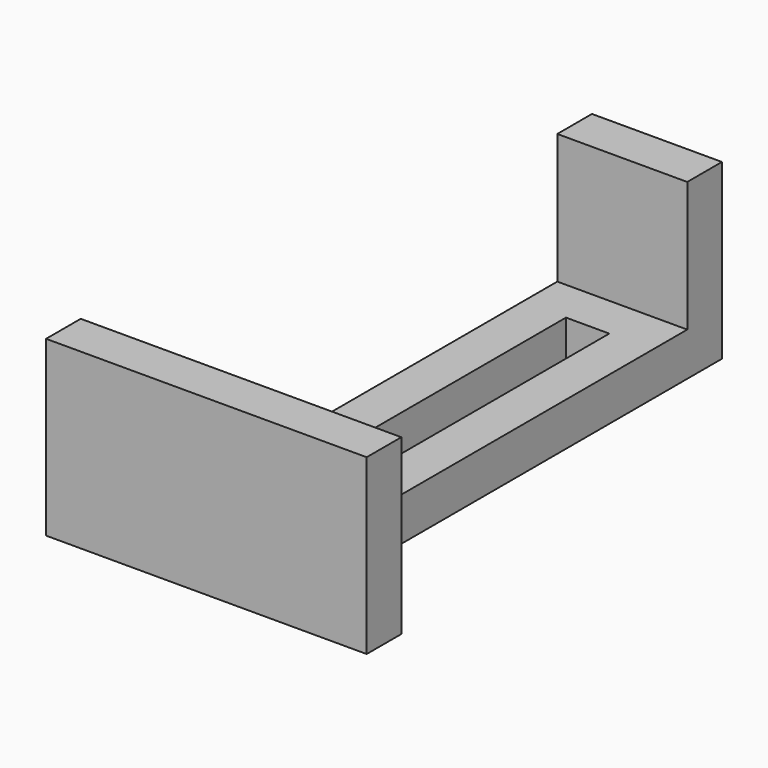
from build123d import *

# Parameters (mm, degrees)
PAD_DEPTH     = 5
SKETCH001_W   = 37
SKETCH001_H   = 5
SKETCH001_W_2 = 15
PAD001_DEPTH  = 20


with BuildPart() as part:
    # Sketch → Pad (new body)
    with BuildSketch(Plane.XY):
        Polygon((0, 5), (0, 0), (37, 0), (37, 5), (26, 5), (26, 65), (11, 65), (11, 5), align=None)
        Polygon((16, 5), (21, 5), (21, 55), (16.000076, 55), align=None, mode=Mode.SUBTRACT)
    extrude(amount=PAD_DEPTH)

    # Sketch001 → Pad001 (join)
    with BuildSketch(Plane.XY):
        with Locations((18.5, 2.5)):
            Rectangle(SKETCH001_W, SKETCH001_H)
        with Locations((18.5, 62.5)):
            Rectangle(SKETCH001_W_2, SKETCH001_H)
    extrude(amount=PAD001_DEPTH)


solid = part.part
